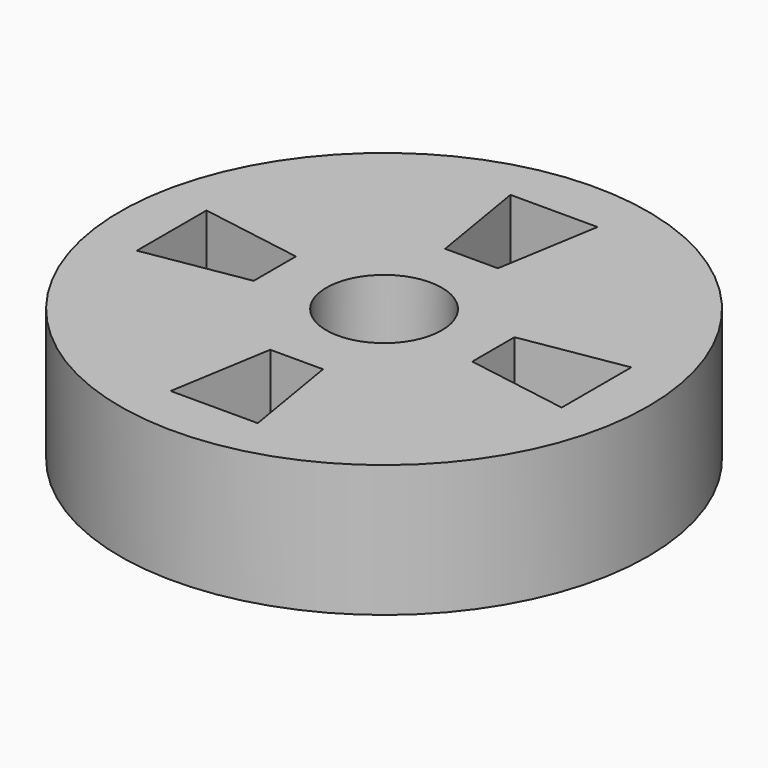
from build123d import *

# Parameters (mm, degrees)
F0_R     = 25.4
F0_R_2   = 5.55625
F1_DEPTH = 12.7
F3_DEPTH = 25.4


with BuildPart() as f1:
    # F0 (on Top) → F1 (new body)
    with BuildSketch(Plane.XY):
        Circle(F0_R)
        Circle(F0_R_2, mode=Mode.SUBTRACT)
    extrude(amount=F1_DEPTH)

    # F2 (on face) → F3 (cut)
    with BuildSketch(Plane.XY.offset(12.7)):
        Polygon((4.191, 20.439063), (-4.191, 20.439063), (-2.54, 10.517188), (2.54, 10.517188), align=None)
        Polygon((-10.517188, 2.54), (-20.439063, 4.191), (-20.439063, -4.191), (-10.517188, -2.54), align=None)
        Polygon((20.439063, -4.191), (20.439063, 4.191), (10.517188, 2.54), (10.517188, -2.54), align=None)
        Polygon((-4.191, -20.439063), (4.191, -20.439063), (2.54, -10.517188), (-2.54, -10.517188), align=None)
    extrude(amount=-F3_DEPTH, mode=Mode.SUBTRACT)


solid = f1.part
